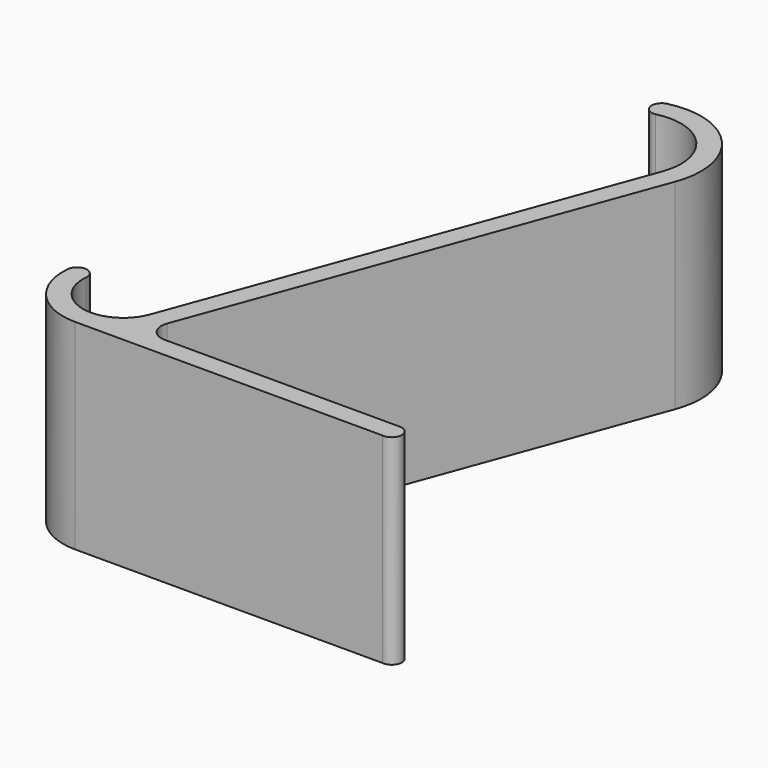
from build123d import *

# Parameters (mm, degrees)
F1_DEPTH = 25.4


with BuildPart() as f1:
    # F0 (on Top) → F1 (new body)
    with BuildSketch(Plane.XY):
        with BuildLine():
            ThreePointArc((-47.917716, 13.608789), (-45.857251, 7.887993), (-40.276696, 5.473362))
            Line((-40.276696, 5.473362), (-1.308659, 5.473362))
            ThreePointArc((-1.308659, 5.473362), (0.14184, 6.648248), (-1.131254, 8.013362))
            Line((-1.131254, 8.013362), (-30.934975, 8.013362))
            ThreePointArc((-30.934975, 8.013362), (-32.686526, 8.926962), (-32.939632, 10.886179))
            Line((-32.939632, 10.886179), (-12.666556, 66.03077))
            ThreePointArc((-12.666556, 66.03077), (-14.397306, 75.64713), (-23.704619, 78.620983))
            ThreePointArc((-23.704619, 78.620983), (-24.659504, 77.139495), (-23.216566, 76.127298))
            ThreePointArc((-23.216566, 76.127298), (-16.365183, 74.040443), (-15.011284, 67.007424))
            Line((-15.011284, 67.007424), (-35.468568, 11.361769))
            ThreePointArc((-35.468568, 11.361769), (-41.409662, 8.133505), (-45.376973, 13.608789))
            ThreePointArc((-45.376973, 13.608789), (-46.647345, 15.004164), (-47.917716, 13.608789))
        make_face()
    extrude(amount=F1_DEPTH)


solid = f1.part
